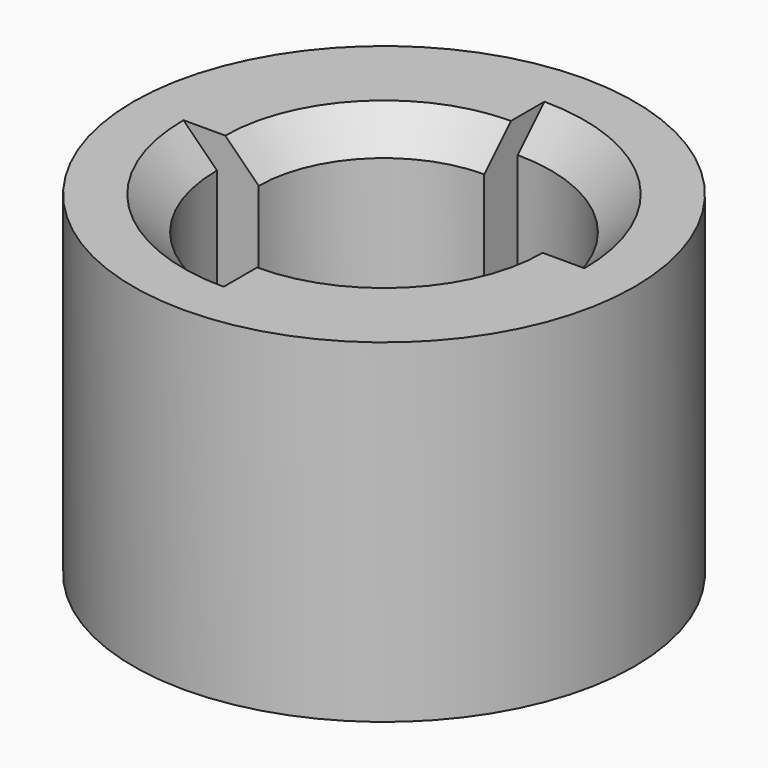
from build123d import *

# Parameters (mm, degrees)
F1_DEPTH = 3
F2_DEPTH = 8
F0_R     = 15
F3_DEPTH = 20
F4_SIZE  = 2


with BuildPart() as f1:
    # F0 (on Top) → F1 (new body)
    with BuildSketch(Plane.XY):
        with BuildLine():
            Line((2, 0), (4, 0))
            ThreePointArc((4, 0), (2.8284271247, 2.8284271247), (0, 4))
            Line((0, 4), (0, 2))
            ThreePointArc((0, 2), (1.4142135624, 1.4142135624), (2, 0))
        make_face()
        with BuildLine():
            Line((0, 2), (0, 4))
            ThreePointArc((0, 4), (-2.8284271247, 2.8284271247), (-4, 0))
            Line((-4, 0), (-2, 0))
            ThreePointArc((-2, 0), (-1.4142135624, 1.4142135624), (0, 2))
        make_face()
        with BuildLine():
            ThreePointArc((-4, 0), (-2.8284271247, -2.8284271247), (0, -4))
            Line((0, -4), (0, -2))
            ThreePointArc((0, -2), (-1.4142135624, -1.4142135624), (-2, 0))
            Line((-2, 0), (-4, 0))
        make_face()
        with BuildLine():
            ThreePointArc((0, -4), (2.8284271247, -2.8284271247), (4, 0))
            Line((4, 0), (2, 0))
            ThreePointArc((2, 0), (1.4142135624, -1.4142135624), (0, -2))
            Line((0, -2), (0, -4))
        make_face()
    extrude(amount=F1_DEPTH)

    # F0 (on Top) → F2 (join)
    with BuildSketch(Plane.XY):
        with BuildLine():
            Line((4, 0), (7.5, 0))
            ThreePointArc((7.5, 0), (5.3033008589, 5.3033008589), (0, 7.5))
            Line((0, 7.5), (0, 4))
            ThreePointArc((0, 4), (2.8284271247, 2.8284271247), (4, 0))
        make_face()
        with BuildLine():
            ThreePointArc((-7.5, 0), (-5.3033008589, -5.3033008589), (0, -7.5))
            Line((0, -7.5), (0, -4))
            ThreePointArc((0, -4), (-2.8284271247, -2.8284271247), (-4, 0))
            Line((-4, 0), (-7.5, 0))
        make_face()
        with BuildLine():
            ThreePointArc((0, -7.5), (5.3033008589, -5.3033008589), (7.5, 0))
            Line((7.5, 0), (4, 0))
            ThreePointArc((4, 0), (2.8284271247, -2.8284271247), (0, -4))
            Line((0, -4), (0, -7.5))
        make_face()
        with BuildLine():
            Line((0, 4), (0, 7.5))
            ThreePointArc((0, 7.5), (-5.3033008589, 5.3033008589), (-7.5, 0))
            Line((-7.5, 0), (-4, 0))
            ThreePointArc((-4, 0), (-2.8284271247, 2.8284271247), (0, 4))
        make_face()
        with BuildLine():
            ThreePointArc((-10, 0), (-7.0710678119, -7.0710678119), (0, -10))
            Line((0, -10), (0, -7.5))
            ThreePointArc((0, -7.5), (-5.3033008589, -5.3033008589), (-7.5, 0))
            Line((-7.5, 0), (-10, 0))
        make_face()
        with BuildLine():
            Line((7.5, 0), (10, 0))
            ThreePointArc((10, 0), (7.0710678119, 7.0710678119), (0, 10))
            Line((0, 10), (0, 7.5))
            ThreePointArc((0, 7.5), (5.3033008589, 5.3033008589), (7.5, 0))
        make_face()
    extrude(amount=F2_DEPTH)

    # F0 (on Top) → F3 (join)
    with BuildSketch(Plane.XY):
        Circle(F0_R)
        with BuildLine():
            ThreePointArc((0, 10), (7.0710678119, 7.0710678119), (10, 0))
            ThreePointArc((10, 0), (7.0710678119, -7.0710678119), (0, -10))
            ThreePointArc((0, -10), (-7.0710678119, -7.0710678119), (-10, 0))
            ThreePointArc((-10, 0), (-7.0710678119, 7.0710678119), (0, 10))
        make_face(mode=Mode.SUBTRACT)
        with BuildLine():
            Line((0, 7.5), (0, 10))
            ThreePointArc((0, 10), (-7.0710678119, 7.0710678119), (-10, 0))
            Line((-10, 0), (-7.5, 0))
            ThreePointArc((-7.5, 0), (-5.3033008589, 5.3033008589), (0, 7.5))
        make_face()
        with BuildLine():
            ThreePointArc((0, -10), (7.0710678119, -7.0710678119), (10, 0))
            Line((10, 0), (7.5, 0))
            ThreePointArc((7.5, 0), (5.3033008589, -5.3033008589), (0, -7.5))
            Line((0, -7.5), (0, -10))
        make_face()
    extrude(amount=F3_DEPTH)

    # F4
    f4_edges = [f1.edges().sort_by_distance(p)[0] for p in [
        (-5.303301, 5.303301, 20),
        (5.303301, -5.303301, 20),
        (7.071068, 7.071068, 20),
        (-7.071068, -7.071068, 20),
    ]]
    chamfer(f4_edges, length=F4_SIZE)


solid = f1.part
